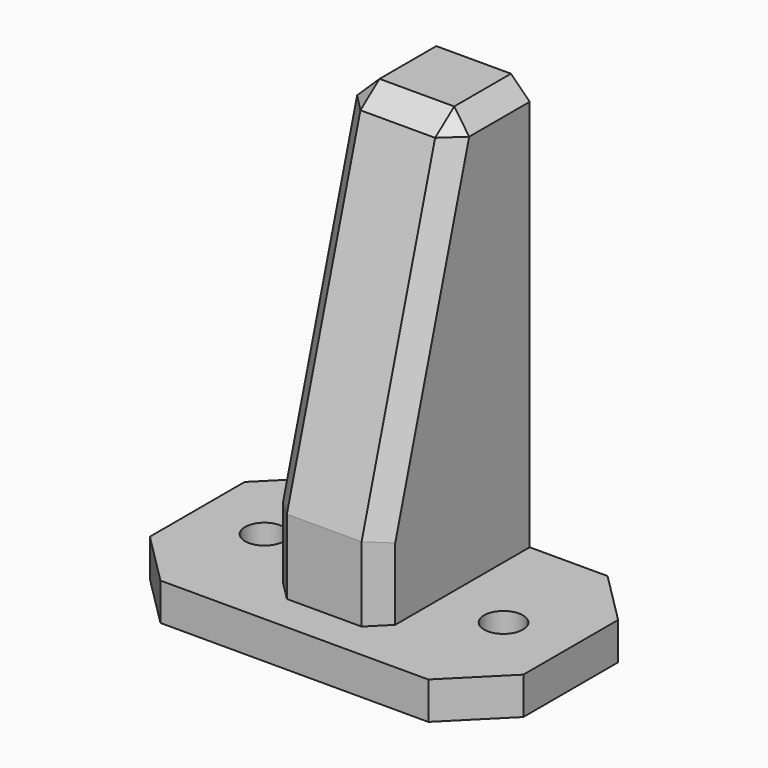
from build123d import *

# Parameters (mm, degrees)
PAD_DEPTH       = 5
PAD001_DEPTH    = 7.5
CHAMFER_SIZE    = 2.5
SKETCH002_R     = 3.25
POCKET_DEPTH    = 11
SKETCH003_R     = 2.6
POCKET001_DEPTH = 5


with BuildPart() as part:
    # Sketch → Pad (new body)
    with BuildSketch(Plane.XY):
        Polygon((-17.928932, -15), (17.928932, -15), (25, -7.928932), (25, 7.928932), (17.928932, 15), (-17.928932, 15), (-25, 7.928932), (-25, -7.928932), align=None)
    extrude(amount=PAD_DEPTH)

    # Sketch001 → Pad001 (join, symmetric)
    with BuildSketch(Plane.YZ):
        Polygon((0, 0), (-10, 0), (-10, 15), (3, 60), (15, 60), (15, 0), align=None)
    extrude(amount=PAD001_DEPTH, both=True)

    # Chamfer
    chamfer_edges = [part.edges().sort_by_distance(p)[0] for p in [
        (0, 3, 60),
        (7.5, -3.5, 37.5),
        (-7.5, -3.5, 37.5),
        (-7.5, -10, 10),
        (7.5, -10, 10),
        (7.5, 9, 60),
        (-7.5, 9, 60),
    ]]
    chamfer(chamfer_edges, length=CHAMFER_SIZE)

    # Sketch002 (on Face4 of Chamfer) → Pocket (cut)
    with BuildSketch(Plane(origin=(0, 15, 0), x_dir=(-1, 0, 0), z_dir=(0, 1, 0))):
        with Locations((0, 52.5)):
            Circle(SKETCH002_R)
    extrude(amount=-POCKET_DEPTH, mode=Mode.SUBTRACT)

    # Sketch003 (on Face19 of Pocket) → Pocket001 (cut)
    with BuildSketch(Plane(origin=(0, 0, 0), x_dir=(1, 0, 0), z_dir=(0, 0, -1))):
        with Locations((-16, 0)):
            Circle(SKETCH003_R)
        with Locations((16, 0)):
            Circle(SKETCH003_R)
    extrude(amount=-POCKET001_DEPTH, mode=Mode.SUBTRACT)


solid = part.part
